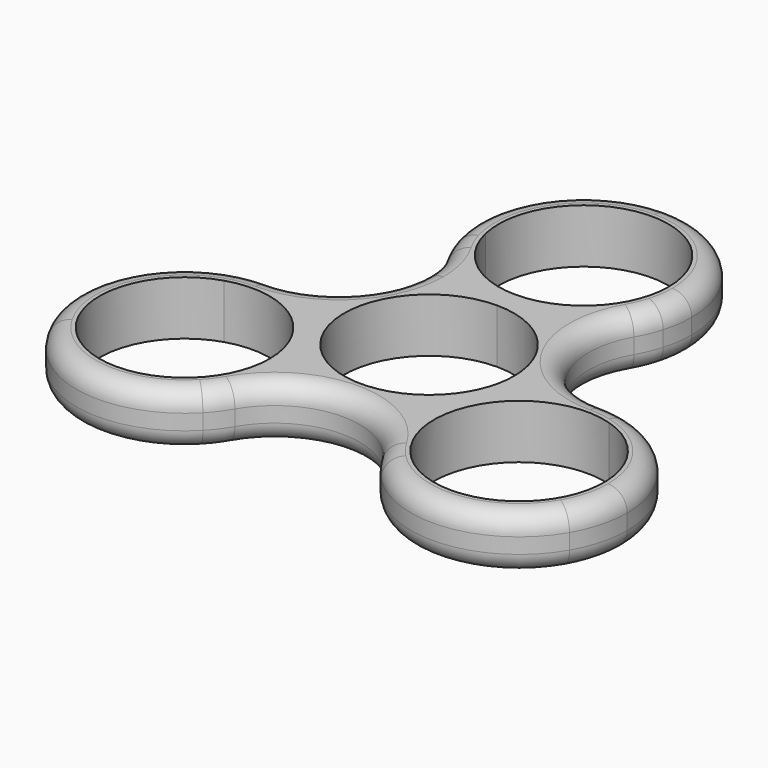
from build123d import *

# Parameters (mm, degrees)
F1_DEPTH = 7
F2_R     = 2.5


with BuildPart() as f1:
    # F0 (on Top) → F1 (new body)
    with BuildSketch(Plane.XY):
        with BuildLine():
            ThreePointArc((0, 39), (-11.2, 33.4), (-13.44, 21.08))
            ThreePointArc((-13.44, 21.08), (-12.108499103, 21.8719969247), (-10.7304985905, 22.58))
            ThreePointArc((-10.7304985905, 22.58), (-1.217480083, 35.9324170359), (11, 25))
            ThreePointArc((11, 25), (10.9324170359, 23.782519917), (10.7304985905, 22.58))
            ThreePointArc((10.7304985905, 22.58), (12.108499103, 21.8719969247), (13.44, 21.08))
            ThreePointArc((13.44, 21.08), (13.8592929113, 23.0201010127), (14, 25))
            ThreePointArc((14, 25), (9.8994949366, 34.8994949366), (0, 39))
        make_face()
        with BuildLine():
            ThreePointArc((-24.9201029127, -1.9971156254), (-24.9959545198, -0.4497306374), (-24.9758155118, 1.0993814269))
            ThreePointArc((-24.9758155118, 1.0993814269), (-34.5252485482, -7.0005156222), (-33.7749905903, -19.5000002724))
            ThreePointArc((-33.7749905903, -19.5000002724), (-23.3252483303, -26.3994845412), (-11.5358155118, -22.1793814269))
            ThreePointArc((-11.5358155118, -22.1793814269), (-12.8874554167, -21.4222662872), (-14.1896043222, -20.5828843746))
            ThreePointArc((-14.1896043222, -20.5828843746), (-31.1769145362, -18), (-24.9201029127, -1.9971156254))
        make_face()
        with BuildLine():
            ThreePointArc((35.6506350946, -12.5), (32.6631853406, -3.8557107244), (24.9758155118, 1.0993814269))
            ThreePointArc((24.9758155118, 1.0993814269), (24.9939531467, 0.5498237016), (25, 0))
            ThreePointArc((25, 0), (24.9800177424, -0.9993565887), (24.9201029127, -1.9971156254))
            ThreePointArc((24.9201029127, -1.9971156254), (30.509645931, -5.9794228016), (32.6506350946, -12.5))
            ThreePointArc((32.6506350946, -12.5), (26.0624749321, -22.5764909194), (14.1896043222, -20.5828843746))
            ThreePointArc((14.1896043222, -20.5828843746), (12.8874554167, -21.4222662872), (11.5358155118, -22.1793814269))
            ThreePointArc((11.5358155118, -22.1793814269), (23.3252483303, -26.3994845412), (33.7749905903, -19.5000002724))
            ThreePointArc((33.7749905903, -19.5000002724), (35.173596622, -16.1234667833), (35.6506350946, -12.5))
        make_face()
        with BuildLine():
            ThreePointArc((-7.6506350946, -12.5), (-8.1276735787, -8.876533174), (-9.5262796431, -5.499999651))
            ThreePointArc((-9.5262796431, -5.499999651), (-14.6506352691, -0.3756442463), (-21.6506350946, 1.5))
            ThreePointArc((-21.6506350946, 1.5), (-23.3252484864, 1.3994845224), (-24.9758155118, 1.0993814269))
            ThreePointArc((-24.9758155118, 1.0993814269), (-24.9959545198, -0.4497306374), (-24.9201029127, -1.9971156254))
            ThreePointArc((-24.9201029127, -1.9971156254), (-15.1300578962, -3.6409891636), (-10.6506350946, -12.5))
            ThreePointArc((-10.6506350946, -12.5), (-11.5741441752, -16.9118398375), (-14.1896043222, -20.5828843746))
            ThreePointArc((-14.1896043222, -20.5828843746), (-12.8874554167, -21.4222662872), (-11.5358155118, -22.1793814269))
            ThreePointArc((-11.5358155118, -22.1793814269), (-10.4506352242, -20.9000001727), (-9.5262796575, -19.500000374))
            ThreePointArc((-9.5262796575, -19.500000374), (-8.1276735824, -16.12346684), (-7.6506350946, -12.5))
        make_face()
        with BuildLine():
            ThreePointArc((21.6506350946, 1.5), (14.6506353187, -0.3756442176), (9.5262797004, -5.4999995518))
            ThreePointArc((9.5262797004, -5.4999995518), (7.6506350946, -12.5000000071), (9.5262797075, -19.5000004605))
            ThreePointArc((9.5262797075, -19.5000004605), (10.4506352541, -20.9000002127), (11.5358155118, -22.1793814269))
            ThreePointArc((11.5358155118, -22.1793814269), (12.8874554167, -21.4222662872), (14.1896043222, -20.5828843746))
            ThreePointArc((14.1896043222, -20.5828843746), (12.124355653, -7), (24.9201029127, -1.9971156254))
            ThreePointArc((24.9201029127, -1.9971156254), (24.9800177424, -0.9993565887), (25, 0))
            ThreePointArc((25, 0), (24.9939531467, 0.5498237016), (24.9758155118, 1.0993814269))
            ThreePointArc((24.9758155118, 1.0993814269), (23.3252484864, 1.3994845224), (21.6506350946, 1.5))
        make_face()
        with BuildLine():
            ThreePointArc((-12.1243554417, 17.999999634), (-6.9999998228, 12.8756442447), (-1.34e-08, 11))
            ThreePointArc((-1.34e-08, 11), (6.9999997518, 12.8756442037), (12.1243553731, 17.9999995151))
            ThreePointArc((12.1243553731, 17.9999995151), (12.8746132818, 19.5005152202), (13.44, 21.08))
            ThreePointArc((13.44, 21.08), (12.108499103, 21.8719969247), (10.7304985905, 22.58))
            ThreePointArc((10.7304985905, 22.58), (0, 14), (-10.7304985905, 22.58))
            ThreePointArc((-10.7304985905, 22.58), (-12.108499103, 21.8719969247), (-13.44, 21.08))
            ThreePointArc((-13.44, 21.08), (-12.8746133088, 19.5005152833), (-12.1243554417, 17.999999634))
        make_face()
        with BuildLine():
            ThreePointArc((-1.34e-08, 11), (7.7781745883, 7.7781745978), (11, 0))
            ThreePointArc((11, 0), (10.6251841562, -2.8470092462), (9.5262797004, -5.4999995518))
            ThreePointArc((9.5262797004, -5.4999995518), (14.6506353187, -0.3756442176), (21.6506350946, 1.5))
            ThreePointArc((21.6506350946, 1.5), (12.1243557929, 6.9999997576), (12.1243553731, 17.9999995151))
            ThreePointArc((12.1243553731, 17.9999995151), (6.9999997518, 12.8756442037), (-1.34e-08, 11))
        make_face()
        with BuildLine():
            ThreePointArc((-9.5262796431, -5.499999651), (-9.5262793442, 5.5000001687), (-1.34e-08, 11))
            ThreePointArc((-1.34e-08, 11), (-6.9999998228, 12.8756442447), (-12.1243554417, 17.999999634))
            ThreePointArc((-12.1243554417, 17.999999634), (-11.0254509507, 15.347009292), (-10.6506350946, 12.5))
            ThreePointArc((-10.6506350946, 12.5), (-13.8724605016, 4.7218254069), (-21.6506350946, 1.5))
            ThreePointArc((-21.6506350946, 1.5), (-14.6506352691, -0.3756442463), (-9.5262796431, -5.499999651))
        make_face()
        with BuildLine():
            ThreePointArc((9.5262797075, -19.5000004605), (7.6506350946, -12.5000000071), (9.5262797004, -5.4999995518))
            ThreePointArc((9.5262797004, -5.4999995518), (5.73e-08, -11), (-9.5262796431, -5.499999651))
            ThreePointArc((-9.5262796431, -5.499999651), (-8.1276735787, -8.876533174), (-7.6506350946, -12.5))
            ThreePointArc((-7.6506350946, -12.5), (-8.1276735824, -16.12346684), (-9.5262796575, -19.500000374))
            ThreePointArc((-9.5262796575, -19.500000374), (4.99e-08, -14), (9.5262797075, -19.5000004605))
        make_face()
    extrude(amount=F1_DEPTH)

    # F2
    f2_edges = [f1.edges().sort_by_distance(p)[0] for p in [
        (-33.774991, -19.5, 7),
        (0, -14, 0),
    ]]
    fillet(f2_edges, radius=F2_R)


solid = f1.part
